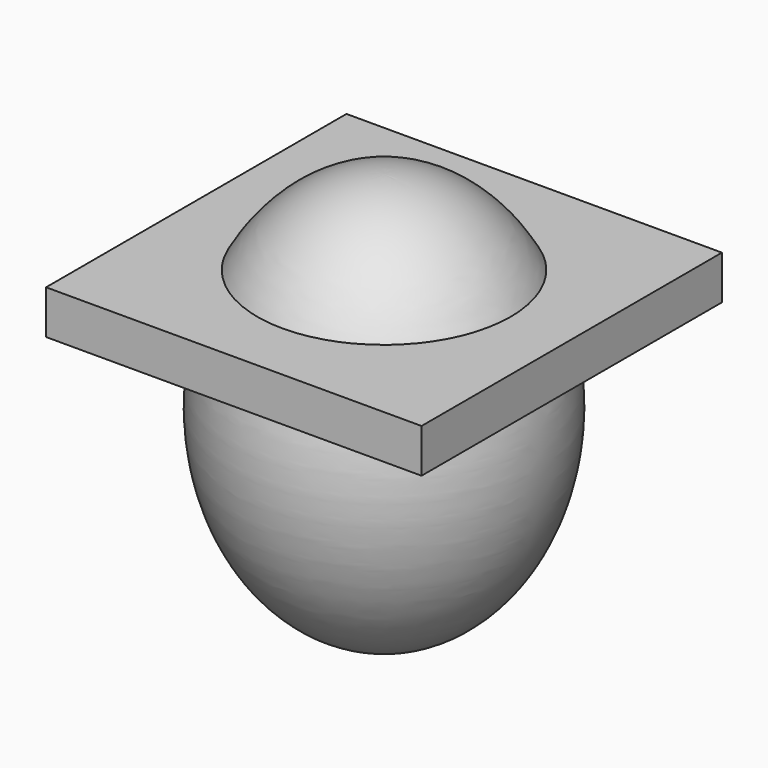
from build123d import *

# Parameters (mm, degrees)
F3_W     = 60
F3_H     = 60
F4_DEPTH = 7


with BuildPart() as f1:
    # F0 (on Front) → F1 (revolve)
    with BuildSketch(Plane.XZ):
        with BuildLine():
            Line((0, 0), (0, -32.5))
            add(Edge.make_bspline(
                [(0, -32.5), (25, -32.5), (25, 0)],
                knots=[0, 0, 0, 1.5707963268, 1.5707963268, 1.5707963268], degree=2, weights=[1, 0.7071067812, 1]))
            Line((25, 0), (0, 0))
        make_face()
        with BuildLine():
            Line((0, 0), (25, 0))
            add(Edge.make_bspline(
                [(25, 0), (25, 32.5), (0, 32.5)],
                knots=[1.5707963268, 1.5707963268, 1.5707963268, 3.1415926536, 3.1415926536, 3.1415926536], degree=2, weights=[1, 0.7071067812, 1]))
            Line((0, 32.5), (0, 0))
        make_face()
    revolve(axis=Axis((0, 0, 0), (0, 0, -1)))


with BuildPart() as f4:
    # F3 (on offset) → F4 (new body)
    with BuildSketch(Plane.XY.offset(19.05)):
        Rectangle(F3_W, F3_H)
    extrude(amount=-F4_DEPTH)


solid = Compound([f1.part, f4.part])
